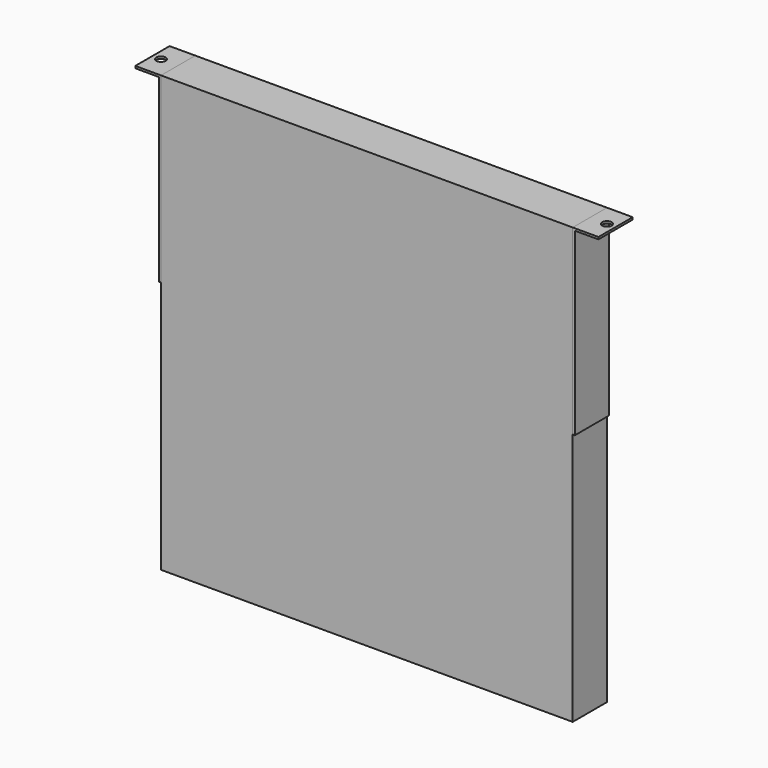
from build123d import *

# Parameters (mm, degrees)
F0_W       = 192
F0_H       = 203
F1_DEPTH   = 20
F3_DEPTH   = 20
F5_D       = 4.4
F5_DEPTH   = 12
F5_TIP     = 1.3218933619
F5_2_D     = 4.4
F5_2_DEPTH = 12
F5_2_TIP   = 1.3218933619


with BuildPart() as f1:
    # F0 (on Front) → F1 (new body)
    with BuildSketch(Plane.XZ):
        Rectangle(F0_W, F0_H)
    extrude(amount=F1_DEPTH)


with BuildPart() as f3:
    # F2 (on face) → F3 (new body)
    with BuildSketch(Plane.XZ.offset(20)):
        Polygon((-96, 16.5), (-96, 101.5), (-97, 101.5), (-108, 101.5), (-108, 100.5), (-97, 100.5), (-97, 16.5), align=None)
    extrude(amount=-F3_DEPTH)

    # F5
    with Locations(Plane.XY.offset(101.5)):
        with Locations((-104, -10), (104, -10)):
            Hole(F5_D / 2, depth=F5_DEPTH)
            with Locations((0, 0, -(F5_DEPTH + F5_TIP / 2))):  # 118° drill point
                Cone(0, F5_D / 2, F5_TIP, mode=Mode.SUBTRACT)


with BuildPart() as f3b:
    # F2 (on face) → F3, piece 2 (new body)
    with BuildSketch(Plane.XZ.offset(20)):
        Polygon((108, 100.5), (108, 101.5), (97, 101.5), (96, 101.5), (96, 16.5), (97, 16.5), (97, 100.5), align=None)
    extrude(amount=-F3_DEPTH)

    # F5#2
    with Locations(Plane.XY.offset(101.5)):
        with Locations((-104, -10), (104, -10)):
            Hole(F5_2_D / 2, depth=F5_2_DEPTH)
            with Locations((0, 0, -(F5_2_DEPTH + F5_2_TIP / 2))):  # 118° drill point
                Cone(0, F5_2_D / 2, F5_2_TIP, mode=Mode.SUBTRACT)


solid = Compound([f1.part, f3.part, f3b.part])
